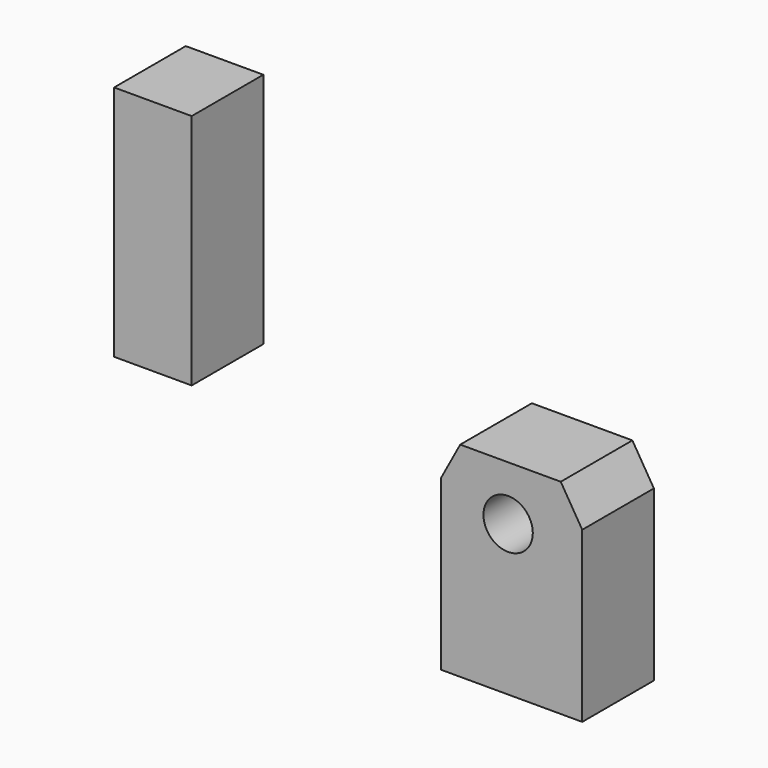
from build123d import *

# Parameters (mm, degrees)
F0_W     = 21.9964
F0_H     = 56.260022
F0_H_2   = 10.9982
F0_R     = 6.9977
F1_DEPTH = 25.4


with BuildPart() as f1:
    # F0 (on Front) → F1 (new body)
    with BuildSketch(Plane.XZ):
        with Locations((-57.529044, 28.130011)):
            Rectangle(F0_W, F0_H)
        with Locations((-57.529044, 61.759122)):
            Rectangle(F0_W, F0_H_2)
        Polygon((29.630365, 10.0076), (24.228379, 0), (24.228379, -47.9806), (64.233379, -47.9806), (64.233379, 0), (58.139, 10.0076), align=None)
        with Locations((43.215271, -5.382111)):
            Circle(F0_R, mode=Mode.SUBTRACT)
    extrude(amount=F1_DEPTH)


solid = f1.part
